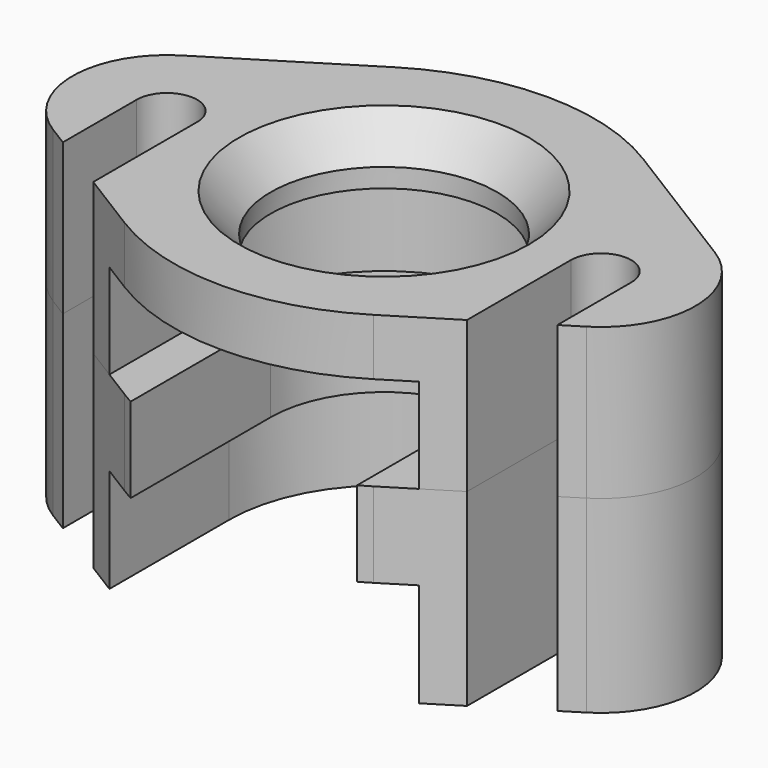
from build123d import *

# Parameters (mm, degrees)
F1_R      = 6
F2_DEPTH  = 8
F4_DEPTH  = 5
F5_SIZE2  = 1.6781992624
F5_SIZE   = 2
F7_DEPTH  = 10
F9_DEPTH  = 10
F11_DEPTH = 5.5


with BuildPart() as f2:
    # F1 (on Top) → F2 (new body)
    with BuildSketch(Plane.XY):
        with BuildLine():
            Line((-6.5918714469, 8.9311071042), (-14.1367485788, 4.2482416283))
            ThreePointArc((-14.1367485788, 4.2482416283), (-16.5, 0), (-14.1367485788, -4.2482416283))
            Line((-14.1367485788, -4.2482416283), (-13.1, -4.8917185255))
            Line((-13.1, -4.8917185255), (-13.1, 0))
            ThreePointArc((-13.1, 0), (-11.5, 1.6), (-9.9, 0))
            Line((-9.9, 0), (-9.9, -6.8778568364))
            Line((-9.9, -6.8778568364), (-6.5918714469, -8.9311071042))
            ThreePointArc((-6.5918714469, -8.9311071042), (0, -10.8105030334), (6.5918714469, -8.9311071042))
            Line((6.5918714469, -8.9311071042), (9.9, -6.8778568364))
            Line((9.9, -6.8778568364), (9.9, 0))
            ThreePointArc((9.9, 0), (11.5, 1.6), (13.1, 0))
            Line((13.1, 0), (13.1, -4.8917185255))
            Line((13.1, -4.8917185255), (14.1367485788, -4.2482416283))
            ThreePointArc((14.1367485788, -4.2482416283), (16.5, 0), (14.1367485788, 4.2482416283))
            Line((14.1367485788, 4.2482416283), (6.5918714469, 8.9311071042))
            ThreePointArc((6.5918714469, 8.9311071042), (0, 10.8105030334), (-6.5918714469, 8.9311071042))
        make_face()
        Circle(F1_R, mode=Mode.SUBTRACT)
    extrude(amount=F2_DEPTH)

    # F3 (on face) → F4 (cut)
    with BuildSketch(Plane(origin=(0, 0, 0), x_dir=(1, 0, 0), z_dir=(0, 0, -1))):
        with BuildLine():
            Line((-8.2, 12.4587612227), (-8.2, 7.9329928141))
            Line((-8.2, 7.9329928141), (-8.2, 0))
            ThreePointArc((-8.2, 0), (0, -8.2), (8.2, 0))
            Line((8.2, 0), (8.2, 7.9329928141))
            Line((8.2, 7.9329928141), (8.2, 12.4587612227))
            Line((8.2, 12.4587612227), (-8.2, 12.4587612227))
        make_face()
    extrude(amount=-F4_DEPTH, mode=Mode.SUBTRACT)

    # F5
    f5_edges = [f2.edges().sort_by_distance(p)[0] for p in [
        (-6, 0, 8),
    ]]
    f5_side = f2.faces().sort_by_distance((-6, 0, 6.5))[0]
    chamfer(f5_edges, length=F5_SIZE, length2=F5_SIZE2, reference=f5_side)


with BuildPart() as f7:
    # F6 (on face) → F7 (new body)
    with BuildSketch(Plane(origin=(0, 0, 0), x_dir=(1, 0, 0), z_dir=(0, 0, -1))):
        with BuildLine():
            ThreePointArc((6.5918714469, 8.9311071042), (0, 10.8105030334), (-6.5918714469, 8.9311071042))
            Line((-6.5918714469, 8.9311071042), (-9.9, 6.8778568364))
            Line((-9.9, 6.8778568364), (-9.9, 0))
            ThreePointArc((-9.9, 0), (-11.5, -1.6), (-13.1, 0))
            Line((-13.1, 0), (-13.1, 4.8917185255))
            Line((-13.1, 4.8917185255), (-14.1367485788, 4.2482416283))
            ThreePointArc((-14.1367485788, 4.2482416283), (-16.5, 0), (-14.1367485788, -4.2482416283))
            Line((-14.1367485788, -4.2482416283), (-6.5918714469, -8.9311071042))
            ThreePointArc((-6.5918714469, -8.9311071042), (0, -10.8105030334), (6.5918714469, -8.9311071042))
            Line((6.5918714469, -8.9311071042), (14.1367485788, -4.2482416283))
            ThreePointArc((14.1367485788, -4.2482416283), (16.5, 0), (14.1367485788, 4.2482416283))
            Line((14.1367485788, 4.2482416283), (13.1, 4.8917185255))
            Line((13.1, 4.8917185255), (13.1, 0))
            ThreePointArc((13.1, 0), (11.5, -1.6), (9.9, 0))
            Line((9.9, 0), (9.9, 6.8778568364))
            Line((9.9, 6.8778568364), (6.5918714469, 8.9311071042))
        make_face()
    extrude(amount=F7_DEPTH)

    # F8 (on face) → F9 (cut, through all)
    with BuildSketch(Plane.XY):
        with BuildLine():
            Line((6, -13.5215136041), (6, 0))
            ThreePointArc((6, 0), (0, 6), (-6, 0))
            Line((-6, 0), (-6, -13.5215136041))
            Line((-6, -13.5215136041), (6, -13.5215136041))
        make_face()
    extrude(amount=-F9_DEPTH, mode=Mode.SUBTRACT)

    # F10 (on face) → F11 (cut)
    with BuildSketch(Plane(origin=(0, 0, -10), x_dir=(1, 0, 0), z_dir=(0, 0, -1))):
        with BuildLine():
            Line((-8.2, 14.8318540305), (-8.2, 7.9329928141))
            Line((-8.2, 7.9329928141), (-8.2, 0))
            ThreePointArc((-8.2, 0), (0, -8.2), (8.2, 0))
            Line((8.2, 0), (8.2, 7.9329928141))
            Line((8.2, 7.9329928141), (8.2, 14.8318540305))
            Line((8.2, 14.8318540305), (-8.2, 14.8318540305))
        make_face()
    extrude(amount=-F11_DEPTH, mode=Mode.SUBTRACT)


solid = Compound([f2.part, f7.part])
